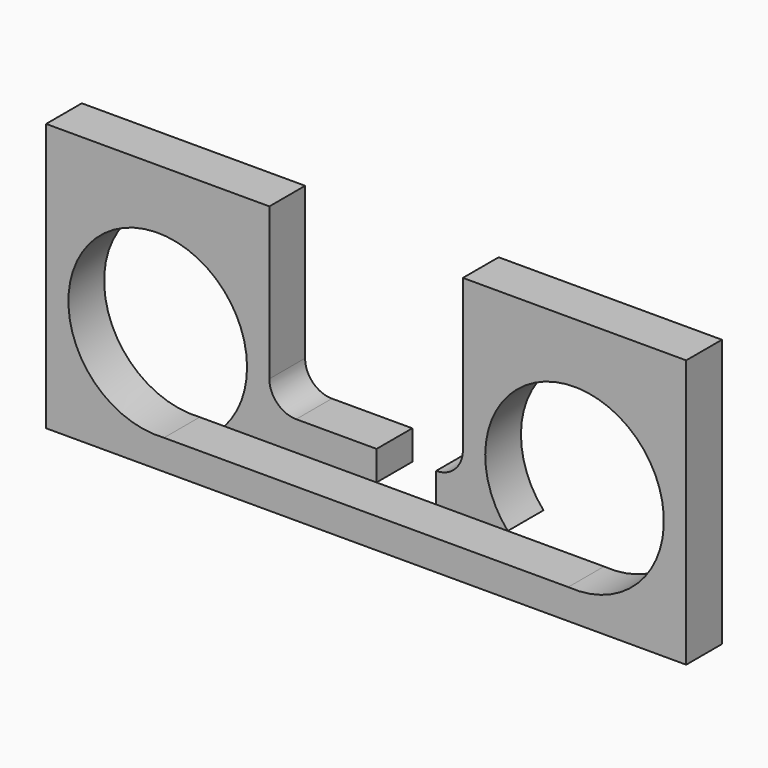
from build123d import *

# Parameters (mm, degrees)
F0_W     = 273.05
F0_H     = 114.3
F1_DEPTH = 19.05
F2_R     = 38.1
F3_DEPTH = 25.4
F5_DEPTH = 25.4
F7_DEPTH = 25.4


with BuildPart() as f1:
    # F0 (on Front) → F1 (new body)
    with BuildSketch(Plane.XZ):
        with Locations((136.525, 57.15)):
            Rectangle(F0_W, F0_H)
    extrude(amount=F1_DEPTH)

    # F2 (on face) → F3 (cut)
    with BuildSketch(Plane.XZ.offset(19.05)):
        with Locations((225.425, 50.8)):
            Circle(F2_R)
        with Locations((47.625, 50.8)):
            Circle(F2_R)
    extrude(amount=-F3_DEPTH, mode=Mode.SUBTRACT)

    # F4 (on face) → F5 (cut)
    with BuildSketch(Plane.XZ.offset(19.05)):
        with BuildLine():
            Line((177.8, 114.3), (95.25, 114.3))
            Line((95.25, 114.3), (95.25, 49.53))
            ThreePointArc((95.25, 49.53), (98.597769, 41.447769), (106.68, 38.1))
            Line((106.68, 38.1), (166.37, 38.1))
            ThreePointArc((166.37, 38.1), (174.452231, 41.447769), (177.8, 49.53))
            Line((177.8, 49.53), (177.8, 114.3))
        make_face()
    extrude(amount=-F5_DEPTH, mode=Mode.SUBTRACT)

    # F6 (on face) → F7 (cut)
    with BuildSketch(Plane.XZ.offset(19.05)):
        Polygon((166.37, 25.494051), (166.37, 38.1), (140.97, 38.1), (140.97, 25.494051), (76.106905, 25.494051), (50.300408, 12.794051), (228.100408, 12.794051), (196.943095, 25.494051), align=None)
        Polygon((166.37, 25.494051), (166.37, 38.1), (140.97, 38.1), (140.97, 25.494051), (76.106905, 25.494051), (50.300408, 12.794051), (228.100408, 12.794051), (196.943095, 25.494051), align=None)
        Polygon((166.37, 25.494051), (166.37, 38.1), (140.97, 38.1), (140.97, 25.494051), (76.106905, 25.494051), (50.300408, 12.794051), (228.100408, 12.794051), (196.943095, 25.494051), align=None)
    extrude(amount=-F7_DEPTH, mode=Mode.SUBTRACT)


solid = f1.part
